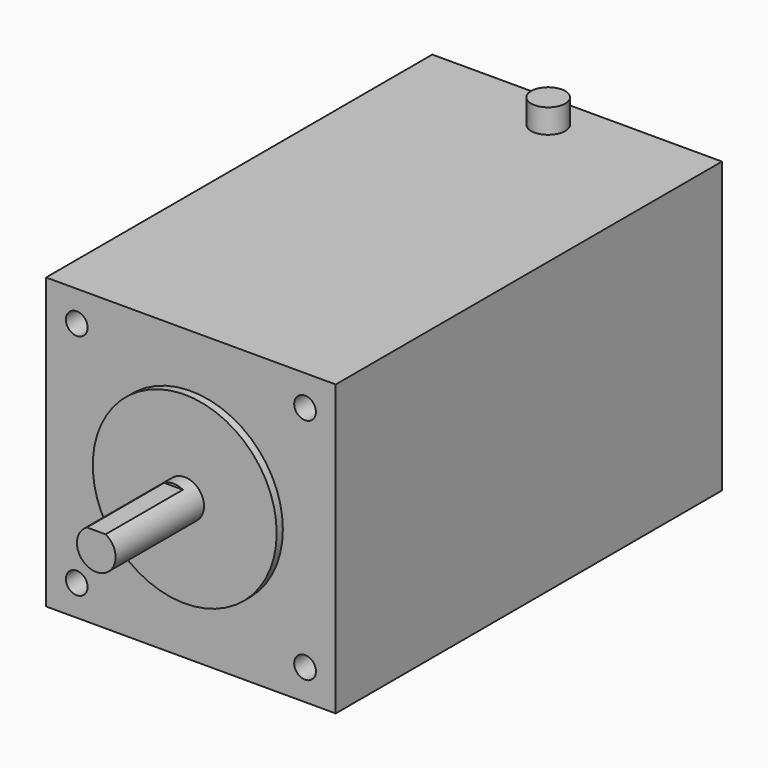
from build123d import *

# Parameters (mm, degrees)
F0_W     = 60
F0_H     = 60
F0_R     = 2.25
F0_R_2   = 19.05
F0_R_3   = 4
F1_DEPTH = 100
F2_DEPTH = 24.5
F4_DEPTH = 20
F5_DEPTH = 1.6
F6_DEPTH = 25
F7_R     = 3.5321510556
F8_DEPTH = 5


with BuildPart() as f1:
    # F0 (on Front) → F1 (new body)
    with BuildSketch(Plane.XZ):
        Rectangle(F0_W, F0_H)
        with Locations((-23.65, -23.65)):
            Circle(F0_R, mode=Mode.SUBTRACT)
        with Locations((23.65, -23.65)):
            Circle(F0_R, mode=Mode.SUBTRACT)
        with Locations((-23.65, 23.65)):
            Circle(F0_R, mode=Mode.SUBTRACT)
        Circle(F0_R_2, mode=Mode.SUBTRACT)
        with Locations((23.65, 23.65)):
            Circle(F0_R, mode=Mode.SUBTRACT)
        Circle(F0_R_2)
        Circle(F0_R_3, mode=Mode.SUBTRACT)
        Circle(F0_R_3)
        with Locations((-23.65, 23.65)):
            Circle(F0_R)
        with Locations((23.65, 23.65)):
            Circle(F0_R)
        with Locations((23.65, -23.65)):
            Circle(F0_R)
        with Locations((-23.65, -23.65)):
            Circle(F0_R)
    extrude(amount=-F1_DEPTH)

    # F0 (on Front) → F2 (join)
    with BuildSketch(Plane.XZ):
        Circle(F0_R_3)
    extrude(amount=F2_DEPTH)

    # F3 (on face) → F4 (cut)
    with BuildSketch(Plane.XZ.offset(24.5)):
        with BuildLine():
            ThreePointArc((1.9364916731, 3.5), (0, 4), (-1.9364916731, 3.5))
            Line((-1.9364916731, 3.5), (1.9364916731, 3.5))
        make_face()
    extrude(amount=-F4_DEPTH, mode=Mode.SUBTRACT)

    # F0 (on Front) → F5 (join)
    with BuildSketch(Plane.XZ):
        Circle(F0_R_2)
        Circle(F0_R_3, mode=Mode.SUBTRACT)
    extrude(amount=F5_DEPTH)

    # F0 (on Front) → F6 (cut)
    with BuildSketch(Plane.XZ):
        with Locations((-23.65, 23.65)):
            Circle(F0_R)
        with Locations((23.65, 23.65)):
            Circle(F0_R)
        with Locations((23.65, -23.65)):
            Circle(F0_R)
        with Locations((-23.65, -23.65)):
            Circle(F0_R)
    extrude(amount=-F6_DEPTH, mode=Mode.SUBTRACT)

    # F7 (on face) → F8 (join)
    with BuildSketch(Plane.XY.offset(30)):
        with Locations((0, 92.517465353)):
            Circle(F7_R)
    extrude(amount=F8_DEPTH)


solid = f1.part
